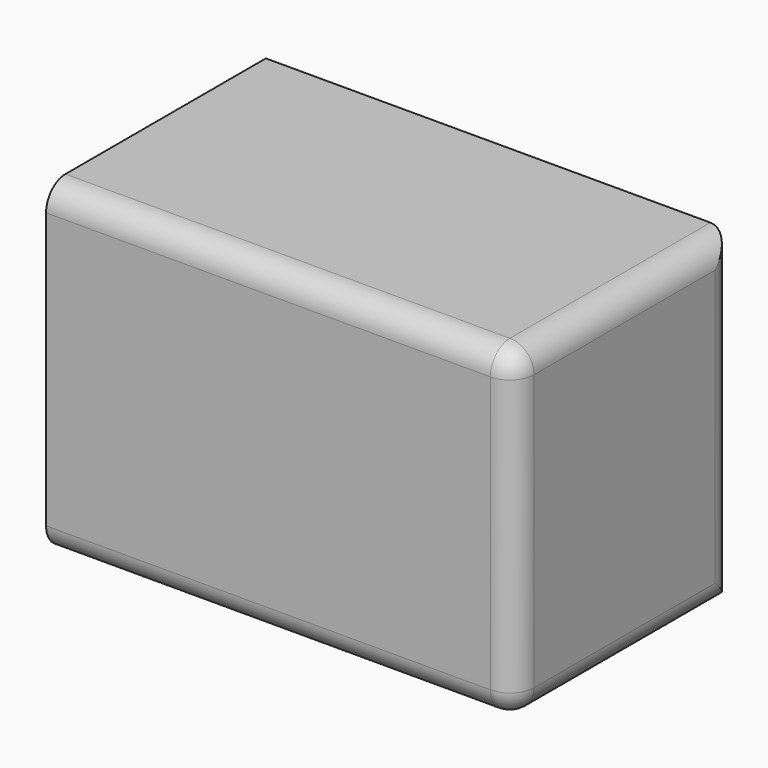
from build123d import *

# Parameters (mm, degrees)
F0_W     = 98.358158
F0_H     = 67.978421
F1_DEPTH = 57.658
F2_R     = 5.08


with BuildPart() as f1:
    # F0 (on Front) → F1 (new body)
    with BuildSketch(Plane.XZ):
        with Locations((2.55671, -4.211053)):
            Rectangle(F0_W, F0_H)
    extrude(amount=F1_DEPTH)

    # F2
    f2_edges = [f1.edges().sort_by_distance(p)[0] for p in [
        (2.55671, -57.658, 29.778158),
        (51.735789, -28.829, -38.200263),
        (51.735789, -28.829, 29.778158),
        (51.735789, 0, -4.211052),
        (51.735789, -57.658, -4.211052),
        (2.55671, -57.658, -38.200263),
    ]]
    fillet(f2_edges, radius=F2_R)


solid = f1.part
